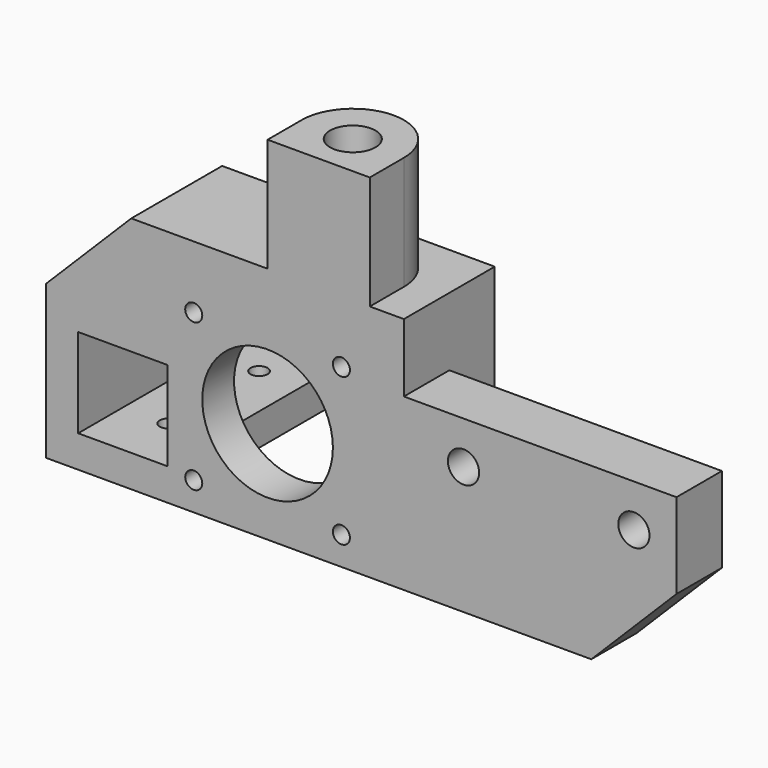
from build123d import *

# Parameters (mm, degrees)
F0_R        = 1.5
F0_W        = 15
F0_H        = 15
F0_R_2      = 11.5
F1_DEPTH    = 5
F3_DEPTH    = 35
F5_DEPTH    = 20
F6_R        = 1.5
F7_DEPTH    = 6.001
F9_DEPTH    = 6
F11_DEPTH   = 6
F12_R       = 1.5
F13_DEPTH   = 6.001
F14_W       = 20
F14_H       = 42
F15_DEPTH   = 6
F16_R       = 2.75
F17_DEPTH   = 10
F19_DEPTH   = 6
F20_SIZE    = 2
F21_W       = 15.7
F21_H       = 15.7
F22_DEPTH   = 40.001
F1_FACE_R   = 1.5
F1_FACE_R_2 = 11.5
F23_DEPTH   = 2
F24_R       = 4
F25_DEPTH   = 20


with BuildPart() as f1:
    # F0 (on Front) → F1 (new body)
    with BuildSketch(Plane.XZ):
        Polygon((18, -18), (18, 18), (-18, 18), (-18, 9), (-33, 9), (-39, 9), (-39, -18), (-33, -18), (-18, -18), align=None)
        with Locations((-13, -13)):
            Circle(F0_R, mode=Mode.SUBTRACT)
        with Locations((-25.5, -4.5)):
            Rectangle(F0_W, F0_H, mode=Mode.SUBTRACT)
        with Locations((13, -13)):
            Circle(F0_R, mode=Mode.SUBTRACT)
        with Locations((-13, 13)):
            Circle(F0_R, mode=Mode.SUBTRACT)
        Circle(F0_R_2, mode=Mode.SUBTRACT)
        with Locations((13, 13)):
            Circle(F0_R, mode=Mode.SUBTRACT)
    extrude(amount=F1_DEPTH)

    # F2 (on face) → F3 (join)
    with BuildSketch(Plane(origin=(0, 0, 0), x_dir=(-1, 0, 0), z_dir=(0, 1, 0))):
        Polygon((18, 9), (18, 3), (33, 3), (33, -12), (18, -12), (18, -18), (39, -18), (39, 9), align=None)
    extrude(amount=F3_DEPTH)

    # F4 (on face) → F5 (join)
    with BuildSketch(Plane.XZ.offset(5)):
        Polygon((-24, 9), (-18, 9), (-18, 18), (18, 18), (18, 24), (-24, 24), align=None)
    extrude(amount=-F5_DEPTH)

    # F6 (on face) → F7 (cut, through all)
    with BuildSketch(Plane.YZ.offset(-33)):
        with Locations((15, -4.5)):
            Circle(F6_R)
    extrude(amount=-F7_DEPTH, mode=Mode.SUBTRACT)

    # F8 (on face) → F9 (join, through all)
    with BuildSketch(Plane(origin=(-24, 0, 0), x_dir=(0, -1, 0), z_dir=(-1, 0, 0))):
        Polygon((-15, 9), (-15, 24), (-35, 9), align=None)
    extrude(amount=-F9_DEPTH)

    # F10 (on face) → F11 (join)
    with BuildSketch(Plane.XZ.offset(5)):
        Polygon((-24, 9), (-24, 24), (-39, 9), align=None)
    extrude(amount=-F11_DEPTH)

    # F12 (on face) → F13 (cut, through all)
    with BuildSketch(Plane.XY.offset(-12)):
        with Locations((-25.5, 5)):
            Circle(F12_R)
        with Locations((-25.5, 25)):
            Circle(F12_R)
    extrude(amount=-F13_DEPTH, mode=Mode.SUBTRACT)

    # F14 (on face) → F15 (join)
    with BuildSketch(Plane.YZ.offset(18)):
        with Locations((5, 3)):
            Rectangle(F14_W, F14_H)
    extrude(amount=F15_DEPTH)

    # F16 (on face) → F17 (join)
    with BuildSketch(Plane.XZ.offset(5)):
        Polygon((24, 12), (24, -18), (57, -18), (72, -3), (72, 12), align=None)
        with Locations((34.5, 4.5)):
            Circle(F16_R, mode=Mode.SUBTRACT)
        with Locations((64.5, 4.5)):
            Circle(F16_R, mode=Mode.SUBTRACT)
    extrude(amount=-F17_DEPTH)

    # F18 (on face) → F19 (join, through all)
    with BuildSketch(Plane(origin=(0, 0, -18), x_dir=(1, 0, 0), z_dir=(0, 0, -1))):
        Polygon((34, -5), (24, -5), (24, -15), align=None)
    extrude(amount=-F19_DEPTH)

    # F20
    f20_edges = [f1.edges().sort_by_distance(p)[0] for p in [
        (-39, 13.5, -4.5),
        (-27, 5, -18),
        (-27, 25, -18),
    ]]
    chamfer(f20_edges, length=F20_SIZE)

    # F21 (on face) → F22 (cut, through all)
    with BuildSketch(Plane.XZ.offset(5)):
        with Locations((-25.5, -4.5)):
            Rectangle(F21_W, F21_H)
    extrude(amount=-F22_DEPTH, mode=Mode.SUBTRACT)

    # F1_face (on face) → F23 (join)
    with BuildSketch(Plane(origin=(-8.726816, 0, -1.288675), x_dir=(1, 0, 0), z_dir=(0, 1, 0))):
        Polygon((-9.273184, 16.711325), (-9.273184, 11.061325), (-8.923184, 11.061325), (-8.923184, -4.638675), (-9.273184, -4.638675), (-9.273184, -19.288675), (26.726816, -19.288675), (26.726816, 16.711325), align=None)
        with Locations((-4.273184, 11.711325)):
            Circle(F1_FACE_R, mode=Mode.SUBTRACT)
        with Locations((21.726816, 11.711325)):
            Circle(F1_FACE_R, mode=Mode.SUBTRACT)
        with Locations((-4.273184, -14.288675)):
            Circle(F1_FACE_R, mode=Mode.SUBTRACT)
        with Locations((8.726816, -1.288675)):
            Circle(F1_FACE_R_2, mode=Mode.SUBTRACT)
        with Locations((21.726816, -14.288675)):
            Circle(F1_FACE_R, mode=Mode.SUBTRACT)
    extrude(amount=F23_DEPTH)

    # F24 (on face) → F25 (join)
    with BuildSketch(Plane.XY.offset(24)):
        with BuildLine():
            Line((0, 2.5), (0, -5))
            Line((0, -5), (18, -5))
            Line((18, -5), (18, 2.5))
            ThreePointArc((18, 2.5), (9, 11.5), (0, 2.5))
        make_face()
        with Locations((9, 2.5)):
            Circle(F24_R, mode=Mode.SUBTRACT)
    extrude(amount=F25_DEPTH)


solid = f1.part
